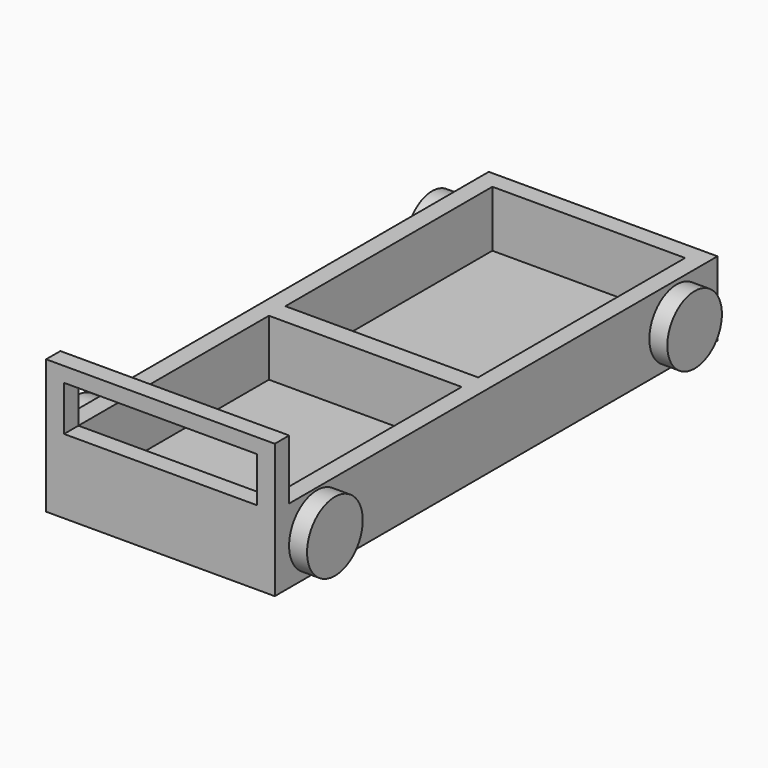
from build123d import *

# Parameters (mm, degrees)
F0_W      = 48.4853778034
F0_H      = 117.3111051321
F1_DEPTH  = 15.748
F2_T      = -3.81
F3_R      = 7.3771432129
F5_DEPTH  = 3.81
F4_R      = 7.2335570925
F6_DEPTH  = 3.81
F8_R      = 6.8623542562
F9_DEPTH  = 3.81
F7_R      = 7.3611206635
F10_DEPTH = 3.81
F11_W     = 40.8653778034
F11_H     = 4.366859328
F12_DEPTH = 11.938
F13_W     = 3.81
F13_H     = 3.7859268486
F14_DEPTH = 12.7
F15_W     = 3.81
F15_H     = 3.81
F16_DEPTH = 12.7
F17_W     = 3.7859268486
F17_H     = 3.1537165951
F18_DEPTH = 41.91


with BuildPart() as f1:
    # F0 (on Top) → F1 (new body)
    with BuildSketch(Plane.XY):
        with Locations((36.937716417, 11.1762210727)):
            Rectangle(F0_W, F0_H)
    extrude(amount=F1_DEPTH)

    # F2
    f2_openings = [f1.faces().sort_by_distance(p)[0] for p in [
        (36.937716, 11.176221, 15.748),
    ]]
    offset(amount=F2_T, openings=f2_openings)

    # F3 (on face) → F5 (join)
    with BuildSketch(Plane.YZ.offset(61.1804053187)):
        with Locations((-36.3165959716, 7.874)):
            Circle(F3_R)
    extrude(amount=F5_DEPTH)

    # F4 (on face) → F6 (join)
    with BuildSketch(Plane.YZ.offset(61.1804053187)):
        with Locations((59.0144656599, 7.6605323702)):
            Circle(F4_R)
    extrude(amount=F6_DEPTH)

    # F8 (on face) → F9 (join)
    with BuildSketch(Plane(origin=(12.6950275153, 0, 0), x_dir=(0, -1, 0), z_dir=(-1, 0, 0))):
        with Locations((-59.5819167793, 8.227978833)):
            Circle(F8_R)
    extrude(amount=F9_DEPTH)

    # F7 (on face) → F10 (join)
    with BuildSketch(Plane(origin=(12.6950275153, 0, 0), x_dir=(0, -1, 0), z_dir=(-1, 0, 0))):
        with Locations((34.6142575145, 7.874)):
            Circle(F7_R)
    extrude(amount=F10_DEPTH)

    # F11 (on face) → F12 (join)
    with BuildSketch(Plane.XY.offset(3.81)):
        with Locations((36.937716417, 8.9927914087)):
            Rectangle(F11_W, F11_H)
    extrude(amount=F12_DEPTH)

    # F13 (on face) → F14 (join)
    with BuildSketch(Plane.XY.offset(15.748)):
        with Locations((14.6000275153, -45.5863680691)):
            Rectangle(F13_W, F13_H)
    extrude(amount=F14_DEPTH)

    # F15 (on face) → F16 (join)
    with BuildSketch(Plane.XY.offset(15.748)):
        with Locations((59.2754053187, -45.5743314934)):
            Rectangle(F15_W, F15_H)
    extrude(amount=F16_DEPTH)

    # F17 (on face) → F18 (join)
    with BuildSketch(Plane.YZ.offset(16.5050275153)):
        with Locations((-45.5863680691, 26.8711417025)):
            Rectangle(F17_W, F17_H)
    extrude(amount=F18_DEPTH)


solid = f1.part
